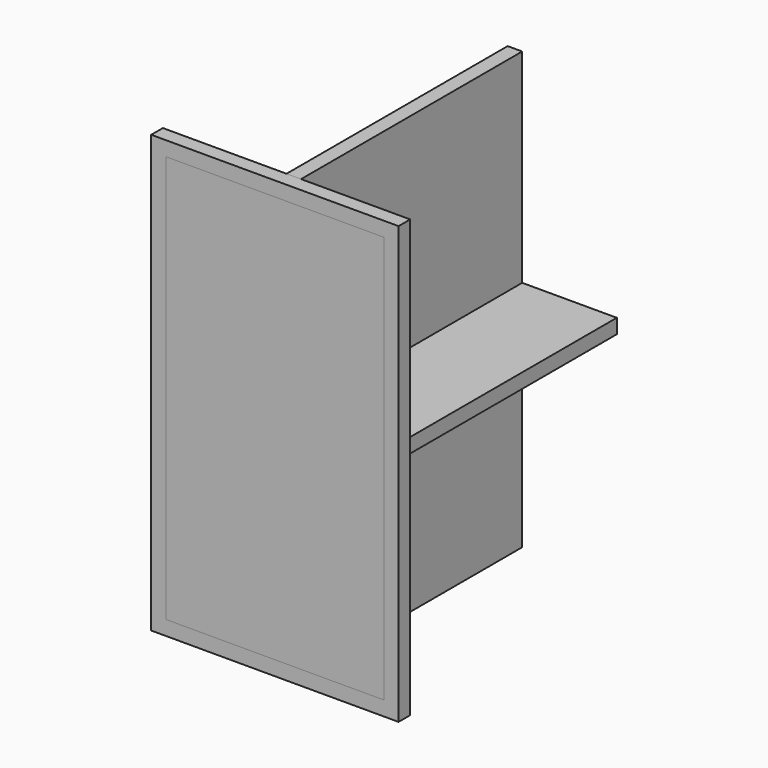
from build123d import *

# Parameters (mm, degrees)
F1_W     = 170
F1_H     = 300
F1_R     = 67.5
F1_R_2   = 32.5
F2_DEPTH = 10
F3_W     = 150
F3_H     = 190
F4_DEPTH = 10
F5_W     = 190
F5_H     = 300
F6_DEPTH = 10
F7_W     = 150
F7_H     = 280
F8_DEPTH = 10


with BuildPart() as f2:
    # F1 (on Front) → F2 (new body)
    with BuildSketch(Plane.XZ):
        Rectangle(F1_W, F1_H)
        with Locations((0, -62.5)):
            Circle(F1_R, mode=Mode.SUBTRACT)
        with Locations((0, 97.5)):
            Circle(F1_R_2, mode=Mode.SUBTRACT)
    extrude(amount=F2_DEPTH)


with BuildPart() as f4:
    # F3 (on Top) → F4 (new body)
    with BuildSketch(Plane.XY):
        with Locations((0, 95)):
            Rectangle(F3_W, F3_H)
    extrude(amount=F4_DEPTH)


with BuildPart() as f6:
    # F5 (on Right) → F6 (new body)
    with BuildSketch(Plane.YZ):
        with Locations((95, 0)):
            Rectangle(F5_W, F5_H)
    extrude(amount=F6_DEPTH)


with BuildPart() as f8:
    # F7 (on Front) → F8 (new body)
    with BuildSketch(Plane.XZ):
        Rectangle(F7_W, F7_H)
    extrude(amount=F8_DEPTH)


solid = Compound([f2.part, f4.part, f6.part, f8.part])
